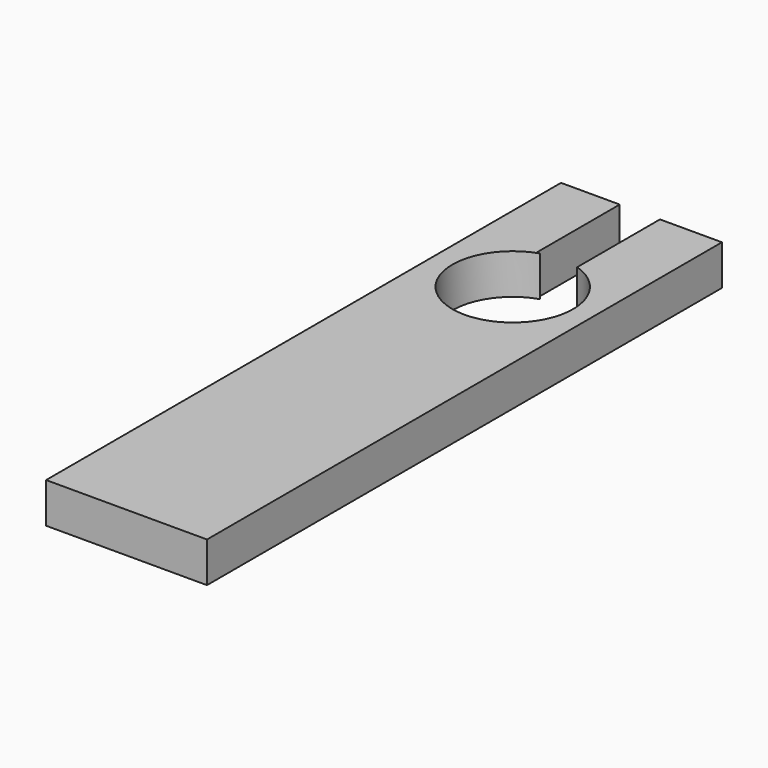
from build123d import *

# Parameters (mm, degrees)
F0_W     = 12.7
F0_H     = 50.8
F1_DEPTH = 3.175
F2_R     = 4.7625
F3_DEPTH = 3.175
F5_DEPTH = 3.175


with BuildPart() as f1:
    # F0 (on Top) → F1 (new body)
    with BuildSketch(Plane.XY):
        Rectangle(F0_W, F0_H)
    extrude(amount=F1_DEPTH)

    # F2 (on face) → F3 (cut, through all)
    with BuildSketch(Plane.XY.offset(3.175)):
        with Locations((0, 12.7)):
            Circle(F2_R)
    extrude(amount=-F3_DEPTH, mode=Mode.SUBTRACT)

    # F4 (on face) → F5 (cut, through all)
    with BuildSketch(Plane.XY.offset(3.175)):
        with BuildLine():
            Line((1.4605, 25.4), (-1.7145, 25.4))
            Line((-1.7145, 25.4), (-1.7145, 17.233028))
            Line((-1.7145, 17.233028), (-1.4605, 17.233028))
            ThreePointArc((-1.4605, 17.233028), (0, 17.4625), (1.4605, 17.233028))
            Line((1.4605, 17.233028), (1.4605, 25.4))
        make_face()
    extrude(amount=-F5_DEPTH, mode=Mode.SUBTRACT)


solid = f1.part
